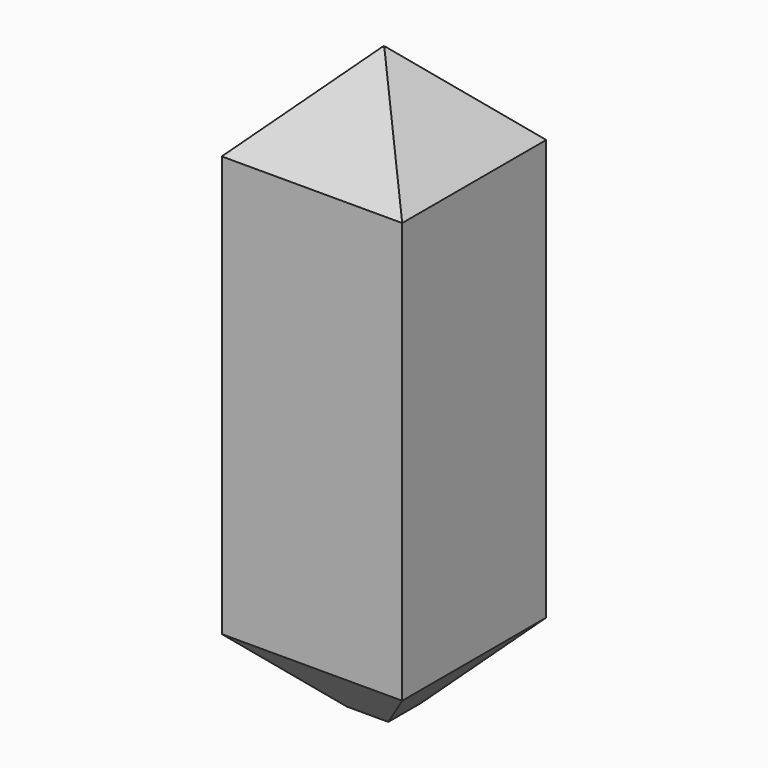
from build123d import *

# Parameters (mm, degrees)
F0_W     = 19.783596
F0_H     = 19.73808
F1_DEPTH = 63.5
F2_SIZE  = 9.779
F3_SIZE  = 7.62


with BuildPart() as f1:
    # F0 (on Top) → F1 (new body)
    with BuildSketch(Plane.XY):
        with Locations((-9.891798, 9.86904)):
            Rectangle(F0_W, F0_H)
    extrude(amount=F1_DEPTH)

    # F2
    f2_edges = [f1.edges().sort_by_distance(p)[0] for p in [
        (-9.891798, 0, 63.5),
        (0, 9.86904, 63.5),
        (-9.891798, 19.73808, 63.5),
        (-19.783596, 9.86904, 63.5),
    ]]
    chamfer(f2_edges, length=F2_SIZE)

    # F3
    f3_edges = [f1.edges().sort_by_distance(p)[0] for p in [
        (-9.891798, 0, 0),
        (0, 9.86904, 0),
        (-9.891798, 19.73808, 0),
        (-19.783596, 9.86904, 0),
    ]]
    chamfer(f3_edges, length=F3_SIZE)


solid = f1.part
